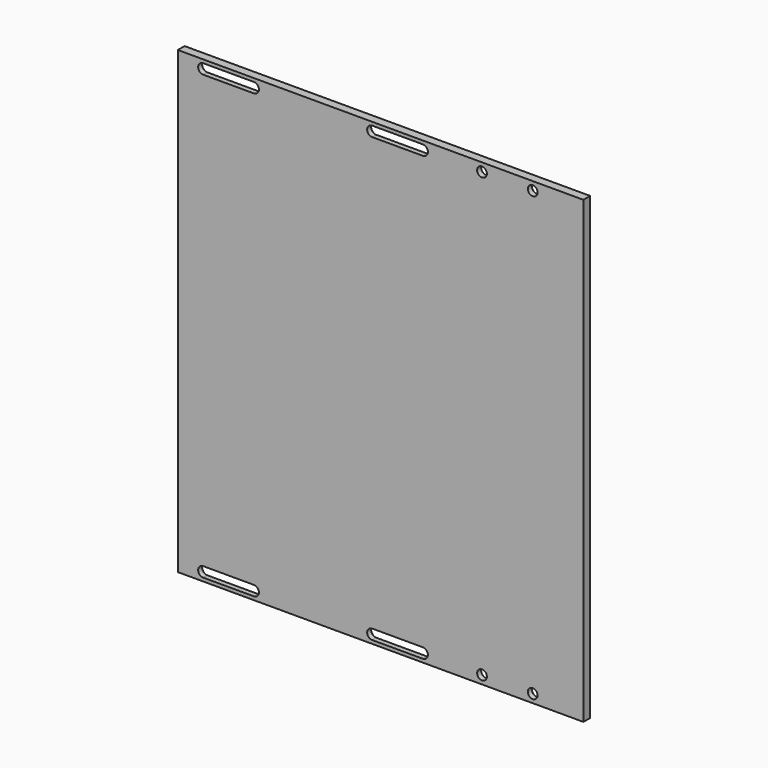
from build123d import *

# Parameters (mm, degrees)
F0_W     = 152.4
F0_H     = 172.72
F0_R     = 1.8288
F1_DEPTH = 3.175
F2_SIZE  = 1.27


with BuildPart() as f1:
    # F0 (on Front) → F1 (new body)
    with BuildSketch(Plane.XZ):
        Rectangle(F0_W, F0_H)
        with BuildLine():
            ThreePointArc((-66.675, -85.0773), (-68.5673, -83.185), (-66.675, -81.2927))
            Line((-66.675, -81.2927), (-47.625, -81.2927))
            ThreePointArc((-47.625, -81.2927), (-45.7327, -83.185), (-47.625, -85.0773))
            Line((-47.625, -85.0773), (-66.675, -85.0773))
        make_face(mode=Mode.SUBTRACT)
        with BuildLine():
            Line((15.875, -85.0773), (-3.175, -85.0773))
            ThreePointArc((-3.175, -85.0773), (-5.0673, -83.185), (-3.175, -81.2927))
            Line((-3.175, -81.2927), (15.875, -81.2927))
            ThreePointArc((15.875, -81.2927), (17.7673, -83.185), (15.875, -85.0773))
        make_face(mode=Mode.SUBTRACT)
        with Locations((38.1, -83.185)):
            Circle(F0_R, mode=Mode.SUBTRACT)
        with Locations((57.15, -83.185)):
            Circle(F0_R, mode=Mode.SUBTRACT)
        with BuildLine():
            Line((-66.675, 85.0773), (-47.625, 85.0773))
            ThreePointArc((-47.625, 85.0773), (-45.7327, 83.185), (-47.625, 81.2927))
            Line((-47.625, 81.2927), (-66.675, 81.2927))
            ThreePointArc((-66.675, 81.2927), (-68.5673, 83.185), (-66.675, 85.0773))
        make_face(mode=Mode.SUBTRACT)
        with BuildLine():
            ThreePointArc((-3.175, 81.2927), (-5.0673, 83.185), (-3.175, 85.0773))
            Line((-3.175, 85.0773), (15.875, 85.0773))
            ThreePointArc((15.875, 85.0773), (17.7673, 83.185), (15.875, 81.2927))
            Line((15.875, 81.2927), (-3.175, 81.2927))
        make_face(mode=Mode.SUBTRACT)
        with Locations((38.1, 83.185)):
            Circle(F0_R, mode=Mode.SUBTRACT)
        with Locations((57.15, 83.185)):
            Circle(F0_R, mode=Mode.SUBTRACT)
    extrude(amount=F1_DEPTH)

    # F2
    f2_edges = [f1.edges().sort_by_distance(p)[0] for p in [
        (55.3212, 0, 83.185),
        (36.2712, 0, 83.185),
        (17.7673, 0, 83.185),
        (6.35, 0, 85.0773),
        (-5.0673, 0, 83.185),
        (6.35, 0, 81.2927),
        (-45.7327, 0, 83.185),
        (-57.15, 0, 85.0773),
        (-57.15, 0, 81.2927),
        (-68.5673, 0, 83.185),
        (-57.15, 0, -81.2927),
        (-45.7327, 0, -83.185),
        (-57.15, 0, -85.0773),
        (-68.5673, 0, -83.185),
        (-5.0673, 0, -83.185),
        (6.35, 0, -81.2927),
        (17.7673, 0, -83.185),
        (6.35, 0, -85.0773),
        (36.2712, 0, -83.185),
        (55.3212, 0, -83.185),
    ]]
    chamfer(f2_edges, length=F2_SIZE)


solid = f1.part
